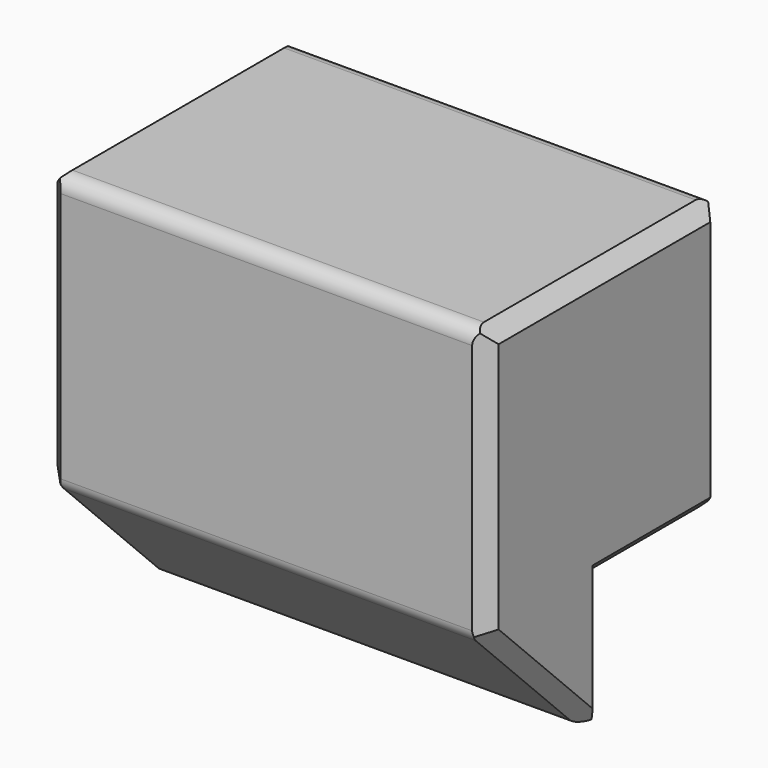
from build123d import *

# Parameters (mm, degrees)
PAD_DEPTH    = 60
CHAMFER_SIZE = 2
FILLET_R     = 2


with BuildPart() as part:
    # Sketch → Pad (new body)
    with BuildSketch(Plane.YZ):
        Polygon((20, 18.5), (20, -18.5), (0, -18.5), (0, -38.5), (-20, -18.5), (-20, 18.5), align=None)
    extrude(amount=PAD_DEPTH)

    # Chamfer
    chamfer_edges = [part.edges().sort_by_distance(p)[0] for p in [
        (0, 20, 0),
        (0, 10, -18.5),
        (0, 0, -28.5),
        (0, -10, -28.5),
        (0, -20, 0),
        (0, 0, 18.5),
        (60, 20, 0),
        (60, 10, -18.5),
        (60, 0, -28.5),
        (60, -10, -28.5),
        (60, -20, 0),
        (60, 0, 18.5),
    ]]
    chamfer(chamfer_edges, length=CHAMFER_SIZE)

    # Fillet
    fillet_edges = [part.edges().sort_by_distance(p)[0] for p in [
        (30, 0, -38.5),
        (30, 20, -18.5),
        (30, 20, 18.5),
        (30, -20, 18.5),
        (30, -20, -18.5),
    ]]
    fillet(fillet_edges, radius=FILLET_R)


solid = part.part
